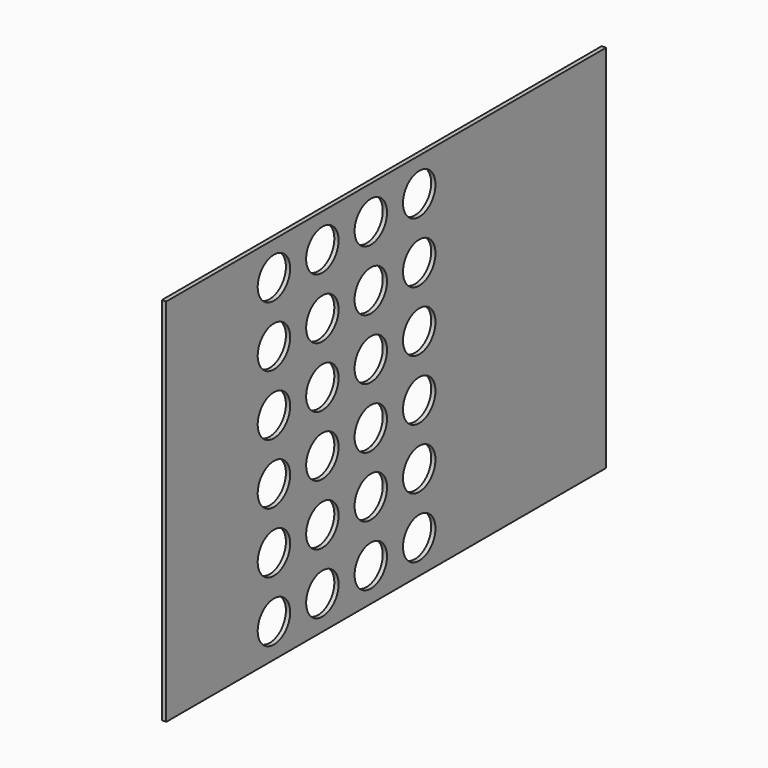
from build123d import *

# Parameters (mm, degrees)
BOX005_W         = 6.35
BOX005_H         = 150
BOX005_DEPTH     = 550.2
BOX004_W         = 6.35
BOX004_H         = 297
BOX004_DEPTH     = 550.2
SKETCH002_R      = 30.15
PAD001_DEPTH     = 200
ARRAY001_X_COUNT = 2
ARRAY001_X_PITCH = 1
ARRAY001_Y_COUNT = 4
ARRAY001_Y_PITCH = 90
ARRAY001_Z_COUNT = 6
ARRAY001_Z_PITCH = 90
BOX001_W         = 6.35
BOX001_H         = 370.3
BOX001_DEPTH     = 550.2


with BuildPart() as obj1:
    # Box005 → Box005 (new body)
    with BuildSketch(Plane(origin=(0, -999, -44), x_dir=(1, 0, 0), z_dir=(0, 0, 1))):
        with Locations((3.175, 75)):
            Rectangle(BOX005_W, BOX005_H)
    extrude(amount=BOX005_DEPTH)


with BuildPart() as cubo004:
    # Box004 → Box004 (new body)
    with BuildSketch(Plane(origin=(0, -478.7, -44), x_dir=(1, 0, 0), z_dir=(0, 0, 1))):
        with Locations((3.175, 148.5)):
            Rectangle(BOX004_W, BOX004_H)
    extrude(amount=BOX004_DEPTH)


with BuildPart() as obj2:
    # Sketch002 → Pad001 (new body)
    with BuildSketch(Plane.YZ):
        Circle(SKETCH002_R)
    extrude(amount=PAD001_DEPTH)


with BuildPart() as obj2_1:
    # Body001 placement: moved
    add(obj2.part.moved(Location((-418, 209, 0))))

    # Array001 X: obj2_2


with BuildPart() as obj2_2:
    add(obj2_1.part)
    with Locations(*[(i * ARRAY001_X_PITCH, 0, 0) for i in range(1, ARRAY001_X_COUNT)]):
        add(obj2_1.part)

    # Array001 Y: obj2_4


with BuildPart() as obj2_3:
    add(obj2_2.part)
    with Locations(*[(0, i * ARRAY001_Y_PITCH, 0) for i in range(1, ARRAY001_Y_COUNT)]):
        add(obj2_2.part)

    # Array001 Z: obj2 ×6


with BuildPart() as obj2_4:
    add(obj2_3.part)
    with Locations(*[(0, 0, i * ARRAY001_Z_PITCH) for i in range(1, ARRAY001_Z_COUNT)]):
        add(obj2_3.part)


with BuildPart() as obj2_5:
    # Array001 placement: moved
    add(obj2_4.part.moved(Location((228.35, -1007.85, 6.05))))


with BuildPart() as placa_portatubo1:
    # Box001 → Box001 (new body)
    with BuildSketch(Plane(origin=(0, -849, -44), x_dir=(1, 0, 0), z_dir=(0, 0, 1))):
        with Locations((3.175, 185.15)):
            Rectangle(BOX001_W, BOX001_H)
    extrude(amount=BOX001_DEPTH)

    # Cut: cut obj2
    add(obj2_5.part, mode=Mode.SUBTRACT)

    # Fusion: union Cubo004
    add(cubo004.part)

    # Fusion001: union obj1
    add(obj1.part)


solid = placa_portatubo1.part
